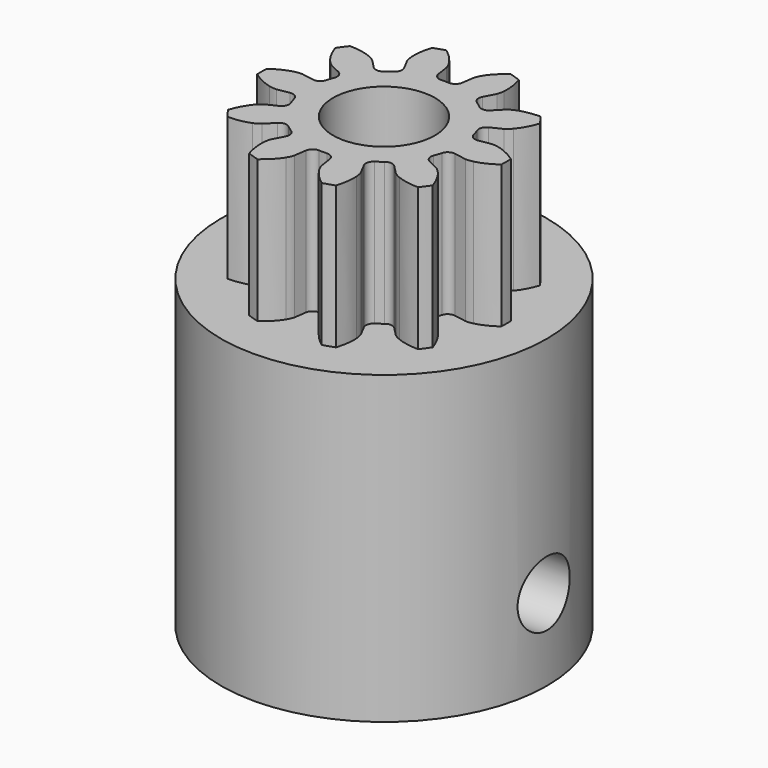
from build123d import *

# Parameters (mm, degrees)
PAD_DEPTH       = 7
SKETCH_R        = 8
PAD001_DEPTH    = 15
SKETCH002_R     = 2.5
POCKET_DEPTH    = 22.001
SKETCH001_R     = 1.6
POCKET001_DEPTH = 16.001
POCKET002_DEPTH = 4.5


with BuildPart() as part:
    # InvoluteGear → Pad (new body)
    with BuildSketch(Plane.XY):
        with BuildLine():
            Line((4.047316, -0.703019), (4.644656, -0.805895))
            add(Edge.make_bspline(
                [(4.644656, -0.805895), (4.684738, -0.809558), (4.804939, -0.814175), (5.008015, -0.767399)],
                knots=[0, 0, 0, 0, 1, 1, 1, 1], degree=3))
            add(Edge.make_bspline(
                [(5.008015, -0.767399), (5.249125, -0.710088), (5.590734, -0.580595), (5.994373, -0.293044)],
                knots=[0, 0, 0, 0, 1, 1, 1, 1], degree=3))
            ThreePointArc((5.994373, -0.293044), (6.001533, 0), (5.994373, 0.293044))
            add(Edge.make_bspline(
                [(5.994373, 0.293044), (5.590734, 0.580595), (5.249125, 0.710088), (5.008015, 0.767399)],
                knots=[0, 0, 0, 0, 1, 1, 1, 1], degree=3))
            add(Edge.make_bspline(
                [(5.008015, 0.767399), (4.804939, 0.814175), (4.684738, 0.809558), (4.644656, 0.805895)],
                knots=[0, 0, 0, 0, 1, 1, 1, 1], degree=3))
            Line((4.644656, 0.805895), (4.047316, 0.703019))
            ThreePointArc((4.047316, 0.703019), (3.782033, 0.75597), (3.621401, 0.97363))
            ThreePointArc((3.621401, 0.97363), (3.566462, 1.158814), (3.50206, 1.340923))
            ThreePointArc((3.50206, 1.340923), (3.504077, 1.611431), (3.687571, 1.810198))
            Line((3.687571, 1.810198), (4.231299, 2.078077))
            add(Edge.make_bspline(
                [(4.231299, 2.078077), (4.265879, 2.098674), (4.365837, 2.165591), (4.502635, 2.322799)],
                knots=[0, 0, 0, 0, 1, 1, 1, 1], degree=3))
            add(Edge.make_bspline(
                [(4.502635, 2.322799), (4.664011, 2.510885), (4.864264, 2.81644), (5.021796, 3.286326)],
                knots=[0, 0, 0, 0, 1, 1, 1, 1], degree=3))
            ThreePointArc((5.021796, 3.286326), (4.855342, 3.527613), (4.677303, 3.760481))
            add(Edge.make_bspline(
                [(4.677303, 3.760481), (4.181734, 3.755863), (3.829252, 3.659832), (3.600504, 3.564476)],
                knots=[0, 0, 0, 0, 1, 1, 1, 1], degree=3))
            add(Edge.make_bspline(
                [(3.600504, 3.564476), (3.408717, 3.482953), (3.314186, 3.408566), (3.283912, 3.382043)],
                knots=[0, 0, 0, 0, 1, 1, 1, 1], degree=3))
            Line((3.283912, 3.382043), (2.861123, 2.947707))
            ThreePointArc((2.861123, 2.947707), (2.615381, 2.834616), (2.357489, 2.916289))
            ThreePointArc((2.357489, 2.916289), (2.204195, 3.033814), (2.045052, 3.143289))
            ThreePointArc((2.045052, 3.143289), (1.887682, 3.36332), (1.9193, 3.631981))
            Line((1.9193, 3.631981), (2.201729, 4.168295))
            add(Edge.make_bspline(
                [(2.201729, 4.168295), (2.217599, 4.205283), (2.259134, 4.318175), (2.277402, 4.525766)],
                knots=[0, 0, 0, 0, 1, 1, 1, 1], degree=3))
            add(Edge.make_bspline(
                [(2.277402, 4.525766), (2.297403, 4.772785), (2.279811, 5.137691), (2.131064, 5.610432)],
                knots=[0, 0, 0, 0, 1, 1, 1, 1], degree=3))
            ThreePointArc((2.131064, 5.610432), (1.854576, 5.707797), (1.573662, 5.791543))
            add(Edge.make_bspline(
                [(1.573662, 5.791543), (1.175453, 5.496518), (0.946735, 5.211644), (0.817722, 5.000045)],
                knots=[0, 0, 0, 0, 1, 1, 1, 1], degree=3))
            add(Edge.make_bspline(
                [(0.817722, 5.000045), (0.710482, 4.821362), (0.677728, 4.705618), (0.668826, 4.666365)],
                knots=[0, 0, 0, 0, 1, 1, 1, 1], degree=3))
            Line((0.668826, 4.666365), (0.582079, 4.066471))
            ThreePointArc((0.582079, 4.066471), (0.449743, 3.830535), (0.193097, 3.745025))
            ThreePointArc((0.193097, 3.745025), (0, 3.75), (-0.193097, 3.745025))
            ThreePointArc((-0.193097, 3.745025), (-0.449743, 3.830535), (-0.582079, 4.066471))
            Line((-0.582079, 4.066471), (-0.668826, 4.666365))
            add(Edge.make_bspline(
                [(-0.668826, 4.666365), (-0.677728, 4.705618), (-0.710482, 4.821362), (-0.817722, 5.000045)],
                knots=[0, 0, 0, 0, 1, 1, 1, 1], degree=3))
            add(Edge.make_bspline(
                [(-0.817722, 5.000045), (-0.946735, 5.211644), (-1.175453, 5.496518), (-1.573662, 5.791543)],
                knots=[0, 0, 0, 0, 1, 1, 1, 1], degree=3))
            ThreePointArc((-1.573662, 5.791543), (-1.854576, 5.707797), (-2.131064, 5.610432))
            add(Edge.make_bspline(
                [(-2.131064, 5.610432), (-2.279811, 5.137691), (-2.297403, 4.772785), (-2.277402, 4.525766)],
                knots=[0, 0, 0, 0, 1, 1, 1, 1], degree=3))
            add(Edge.make_bspline(
                [(-2.277402, 4.525766), (-2.259134, 4.318175), (-2.217599, 4.205283), (-2.201729, 4.168295)],
                knots=[0, 0, 0, 0, 1, 1, 1, 1], degree=3))
            Line((-2.201729, 4.168295), (-1.9193, 3.631981))
            ThreePointArc((-1.9193, 3.631981), (-1.887682, 3.36332), (-2.045052, 3.143289))
            ThreePointArc((-2.045052, 3.143289), (-2.204195, 3.033814), (-2.357489, 2.916289))
            ThreePointArc((-2.357489, 2.916289), (-2.615381, 2.834616), (-2.861123, 2.947707))
            Line((-2.861123, 2.947707), (-3.283912, 3.382043))
            add(Edge.make_bspline(
                [(-3.283912, 3.382043), (-3.314186, 3.408566), (-3.408717, 3.482953), (-3.600504, 3.564476)],
                knots=[0, 0, 0, 0, 1, 1, 1, 1], degree=3))
            add(Edge.make_bspline(
                [(-3.600504, 3.564476), (-3.829252, 3.659832), (-4.181734, 3.755863), (-4.677303, 3.760481)],
                knots=[0, 0, 0, 0, 1, 1, 1, 1], degree=3))
            ThreePointArc((-4.677303, 3.760481), (-4.855342, 3.527613), (-5.021796, 3.286326))
            add(Edge.make_bspline(
                [(-5.021796, 3.286326), (-4.864264, 2.81644), (-4.664011, 2.510885), (-4.502635, 2.322799)],
                knots=[0, 0, 0, 0, 1, 1, 1, 1], degree=3))
            add(Edge.make_bspline(
                [(-4.502635, 2.322799), (-4.365837, 2.165591), (-4.265879, 2.098674), (-4.231299, 2.078077)],
                knots=[0, 0, 0, 0, 1, 1, 1, 1], degree=3))
            Line((-4.231299, 2.078077), (-3.687571, 1.810198))
            ThreePointArc((-3.687571, 1.810198), (-3.504077, 1.611431), (-3.50206, 1.340923))
            ThreePointArc((-3.50206, 1.340923), (-3.566462, 1.158814), (-3.621401, 0.97363))
            ThreePointArc((-3.621401, 0.97363), (-3.782033, 0.75597), (-4.047316, 0.703019))
            Line((-4.047316, 0.703019), (-4.644656, 0.805895))
            add(Edge.make_bspline(
                [(-4.644656, 0.805895), (-4.684738, 0.809558), (-4.804939, 0.814175), (-5.008015, 0.767399)],
                knots=[0, 0, 0, 0, 1, 1, 1, 1], degree=3))
            add(Edge.make_bspline(
                [(-5.008015, 0.767399), (-5.249125, 0.710088), (-5.590734, 0.580595), (-5.994373, 0.293044)],
                knots=[0, 0, 0, 0, 1, 1, 1, 1], degree=3))
            ThreePointArc((-5.994373, 0.293044), (-6.001533, 0), (-5.994373, -0.293044))
            add(Edge.make_bspline(
                [(-5.994373, -0.293044), (-5.590734, -0.580595), (-5.249125, -0.710088), (-5.008015, -0.767399)],
                knots=[0, 0, 0, 0, 1, 1, 1, 1], degree=3))
            add(Edge.make_bspline(
                [(-5.008015, -0.767399), (-4.804939, -0.814175), (-4.684738, -0.809558), (-4.644656, -0.805895)],
                knots=[0, 0, 0, 0, 1, 1, 1, 1], degree=3))
            Line((-4.644656, -0.805895), (-4.047316, -0.703019))
            ThreePointArc((-4.047316, -0.703019), (-3.782033, -0.75597), (-3.621401, -0.97363))
            ThreePointArc((-3.621401, -0.97363), (-3.566462, -1.158814), (-3.50206, -1.340923))
            ThreePointArc((-3.50206, -1.340923), (-3.504077, -1.611431), (-3.687571, -1.810198))
            Line((-3.687571, -1.810198), (-4.231299, -2.078077))
            add(Edge.make_bspline(
                [(-4.231299, -2.078077), (-4.265879, -2.098674), (-4.365837, -2.165591), (-4.502635, -2.322799)],
                knots=[0, 0, 0, 0, 1, 1, 1, 1], degree=3))
            add(Edge.make_bspline(
                [(-4.502635, -2.322799), (-4.664011, -2.510885), (-4.864264, -2.81644), (-5.021796, -3.286326)],
                knots=[0, 0, 0, 0, 1, 1, 1, 1], degree=3))
            ThreePointArc((-5.021796, -3.286326), (-4.855342, -3.527613), (-4.677303, -3.760481))
            add(Edge.make_bspline(
                [(-4.677303, -3.760481), (-4.181734, -3.755863), (-3.829252, -3.659832), (-3.600504, -3.564476)],
                knots=[0, 0, 0, 0, 1, 1, 1, 1], degree=3))
            add(Edge.make_bspline(
                [(-3.600504, -3.564476), (-3.408717, -3.482953), (-3.314186, -3.408566), (-3.283912, -3.382043)],
                knots=[0, 0, 0, 0, 1, 1, 1, 1], degree=3))
            Line((-3.283912, -3.382043), (-2.861123, -2.947707))
            ThreePointArc((-2.861123, -2.947707), (-2.615381, -2.834616), (-2.357489, -2.916289))
            ThreePointArc((-2.357489, -2.916289), (-2.204195, -3.033814), (-2.045052, -3.143289))
            ThreePointArc((-2.045052, -3.143289), (-1.887682, -3.36332), (-1.9193, -3.631981))
            Line((-1.9193, -3.631981), (-2.201729, -4.168295))
            add(Edge.make_bspline(
                [(-2.201729, -4.168295), (-2.217599, -4.205283), (-2.259134, -4.318175), (-2.277402, -4.525766)],
                knots=[0, 0, 0, 0, 1, 1, 1, 1], degree=3))
            add(Edge.make_bspline(
                [(-2.277402, -4.525766), (-2.297403, -4.772785), (-2.279811, -5.137691), (-2.131064, -5.610432)],
                knots=[0, 0, 0, 0, 1, 1, 1, 1], degree=3))
            ThreePointArc((-2.131064, -5.610432), (-1.854576, -5.707797), (-1.573662, -5.791543))
            add(Edge.make_bspline(
                [(-1.573662, -5.791543), (-1.175453, -5.496518), (-0.946735, -5.211644), (-0.817722, -5.000045)],
                knots=[0, 0, 0, 0, 1, 1, 1, 1], degree=3))
            add(Edge.make_bspline(
                [(-0.817722, -5.000045), (-0.710482, -4.821362), (-0.677728, -4.705618), (-0.668826, -4.666365)],
                knots=[0, 0, 0, 0, 1, 1, 1, 1], degree=3))
            Line((-0.668826, -4.666365), (-0.582079, -4.066471))
            ThreePointArc((-0.582079, -4.066471), (-0.449743, -3.830535), (-0.193097, -3.745025))
            ThreePointArc((-0.193097, -3.745025), (0, -3.75), (0.193097, -3.745025))
            ThreePointArc((0.193097, -3.745025), (0.449743, -3.830535), (0.582079, -4.066471))
            Line((0.582079, -4.066471), (0.668826, -4.666365))
            add(Edge.make_bspline(
                [(0.668826, -4.666365), (0.677728, -4.705618), (0.710482, -4.821362), (0.817722, -5.000045)],
                knots=[0, 0, 0, 0, 1, 1, 1, 1], degree=3))
            add(Edge.make_bspline(
                [(0.817722, -5.000045), (0.946735, -5.211644), (1.175453, -5.496518), (1.573662, -5.791543)],
                knots=[0, 0, 0, 0, 1, 1, 1, 1], degree=3))
            ThreePointArc((1.573662, -5.791543), (1.854576, -5.707797), (2.131064, -5.610432))
            add(Edge.make_bspline(
                [(2.131064, -5.610432), (2.279811, -5.137691), (2.297403, -4.772785), (2.277402, -4.525766)],
                knots=[0, 0, 0, 0, 1, 1, 1, 1], degree=3))
            add(Edge.make_bspline(
                [(2.277402, -4.525766), (2.259134, -4.318175), (2.217599, -4.205283), (2.201729, -4.168295)],
                knots=[0, 0, 0, 0, 1, 1, 1, 1], degree=3))
            Line((2.201729, -4.168295), (1.9193, -3.631981))
            ThreePointArc((1.9193, -3.631981), (1.887682, -3.36332), (2.045052, -3.143289))
            ThreePointArc((2.045052, -3.143289), (2.204195, -3.033814), (2.357489, -2.916289))
            ThreePointArc((2.357489, -2.916289), (2.615381, -2.834616), (2.861123, -2.947707))
            Line((2.861123, -2.947707), (3.283912, -3.382043))
            add(Edge.make_bspline(
                [(3.283912, -3.382043), (3.314186, -3.408566), (3.408717, -3.482953), (3.600504, -3.564476)],
                knots=[0, 0, 0, 0, 1, 1, 1, 1], degree=3))
            add(Edge.make_bspline(
                [(3.600504, -3.564476), (3.829252, -3.659832), (4.181734, -3.755863), (4.677303, -3.760481)],
                knots=[0, 0, 0, 0, 1, 1, 1, 1], degree=3))
            ThreePointArc((4.677303, -3.760481), (4.855342, -3.527613), (5.021796, -3.286326))
            add(Edge.make_bspline(
                [(5.021796, -3.286326), (4.864264, -2.81644), (4.664011, -2.510885), (4.502635, -2.322799)],
                knots=[0, 0, 0, 0, 1, 1, 1, 1], degree=3))
            add(Edge.make_bspline(
                [(4.502635, -2.322799), (4.365837, -2.165591), (4.265879, -2.098674), (4.231299, -2.078077)],
                knots=[0, 0, 0, 0, 1, 1, 1, 1], degree=3))
            Line((4.231299, -2.078077), (3.687571, -1.810198))
            ThreePointArc((3.687571, -1.810198), (3.504077, -1.611431), (3.50206, -1.340923))
            ThreePointArc((3.50206, -1.340923), (3.566462, -1.158814), (3.621401, -0.97363))
            ThreePointArc((3.621401, -0.97363), (3.782033, -0.75597), (4.047316, -0.703019))
        make_face()
    extrude(amount=PAD_DEPTH)

    # Sketch → Pad001 (join)
    with BuildSketch(Plane.XY):
        Circle(SKETCH_R)
    extrude(amount=-PAD001_DEPTH)

    # Sketch002 (on DatumPlane) → Pocket (cut, through all)
    with BuildSketch(Plane(origin=(0, 0, -15), x_dir=(1, 0, 0), z_dir=(0, 0, -1))):
        Circle(SKETCH002_R)
    extrude(amount=-POCKET_DEPTH, mode=Mode.SUBTRACT)

    # Sketch001 (on DatumPlane) → Pocket001 (cut, through all)
    with BuildSketch(Plane(origin=(8, 0, -15), x_dir=(0, -1, 0), z_dir=(1, 0, 0))):
        with Locations((0, -4)):
            Circle(SKETCH001_R)
    extrude(amount=-POCKET001_DEPTH, mode=Mode.SUBTRACT)

    # Sketch003 → Pocket002 (cut, symmetric)
    with BuildSketch(Plane.YZ):
        Polygon((3, -12.732051), (3, -9.267949), (0, -7.535898), (-3, -9.267949), (-3, -12.732051), (-3, -22.732051), (3, -22.732051), align=None)
    extrude(amount=POCKET002_DEPTH, both=True, mode=Mode.SUBTRACT)


solid = part.part
